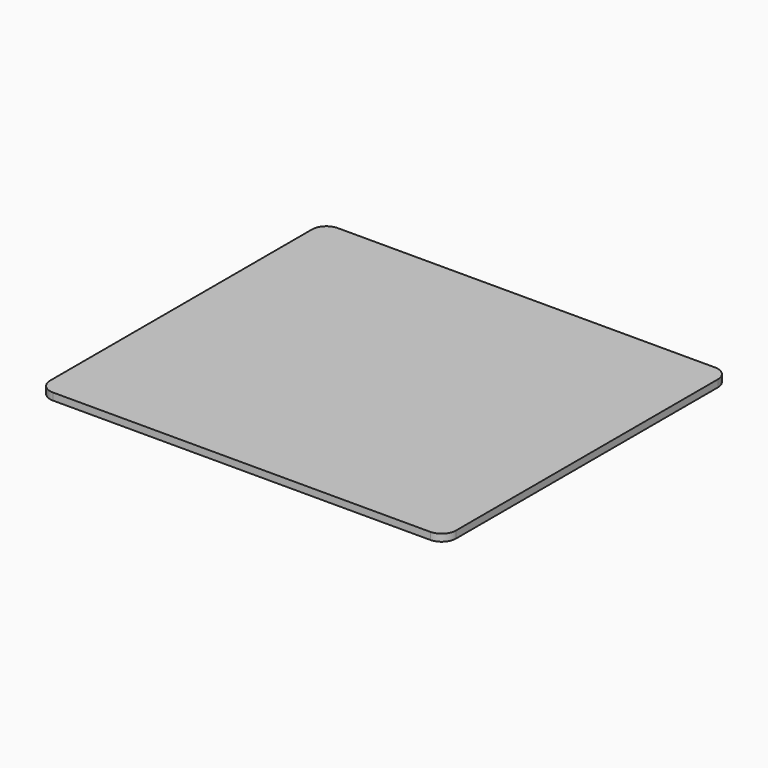
from build123d import *

# Parameters (mm, degrees)
F0_W     = 139.7
F0_H     = 121.92
F1_DEPTH = 2.54
F3_W     = 144.78
F3_H     = 127
F4_DEPTH = 2.54
F5_R     = 5.08


with BuildPart() as f1:
    # F0 (on Top) → F1 (new body)
    with BuildSketch(Plane.XY):
        with Locations((-21.8530647397, 23.8552480853)):
            Rectangle(F0_W, F0_H)
    extrude(amount=F1_DEPTH)


with BuildPart() as f4:
    # F3 (on Top) → F4 (new body)
    with BuildSketch(Plane.XY):
        Rectangle(F3_W, F3_H)
    extrude(amount=F4_DEPTH)

    # F5
    f5_edges = [f4.edges().sort_by_distance(p)[0] for p in [
        (-72.39, 63.5, 1.27),
        (72.39, 63.5, 1.27),
        (72.39, -63.5, 1.27),
        (-72.39, -63.5, 1.27),
    ]]
    fillet(f5_edges, radius=F5_R)


solid = f4.part
